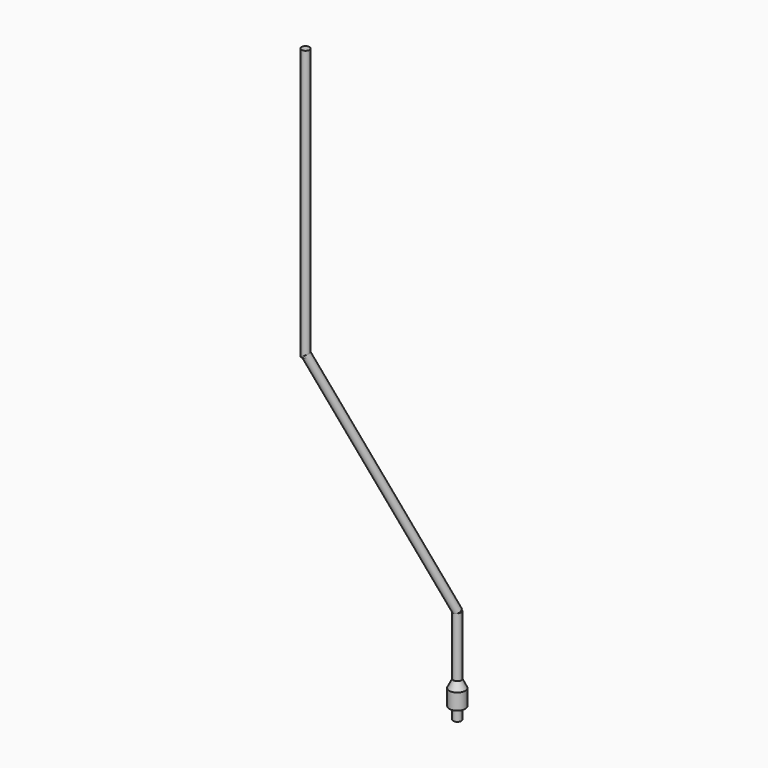
from build123d import *

# Parameters (mm, degrees)
CYLINDER071_R               = 1
CYLINDER071_DEPTH           = 16
CYLINDER062_R               = 2
CYLINDER062_DEPTH           = 4
CYLINDER064_R               = 1
CYLINDER064_DEPTH           = 8
CYLINDER069_R               = 1
CYLINDER069_DEPTH           = 67
CYLINDER069_ROLL_ANGLE      = 14.618093
CYLINDER069_PITCH_ANGLE     = -22.769702
CYLINDER069_PLACEMENT_ANGLE = 14.618093
CYLINDER070_R               = 1
CYLINDER070_DEPTH           = 68


with BuildPart() as cylindre067:
    # Cylinder071 → Cylinder071 (new body)
    with BuildSketch(Plane(origin=(-18, 17, -43), x_dir=(1, 0, 0), z_dir=(0, 0, 1))):
        Circle(CYLINDER071_R)
    extrude(amount=CYLINDER071_DEPTH)


with BuildPart() as obj1:
    # Cone002 → Cone002 (revolve)
    with BuildSketch(Plane(origin=(-32, 9, -106), x_dir=(1, 0, 0), z_dir=(0, -1, 0))):
        Polygon((0, 0), (2, 0), (1, 2), (0, 2), align=None)
    revolve(axis=Axis((-32, 9, -106), (0, 0, 1)))


with BuildPart() as fusion035:
    # Cylinder062 → Cylinder062 (new body)
    with BuildSketch(Plane(origin=(-32, 9, -110), x_dir=(1, 0, 0), z_dir=(0, 0, 1))):
        Circle(CYLINDER062_R)
    extrude(amount=CYLINDER062_DEPTH)

    # Fusion029: union obj1
    add(obj1.part)


with BuildPart() as fusion035_1:
    # Fusion029 placement: moved
    add(fusion035.part.moved(Location((14, 8, 62))))

    # Fusion035: union Cylindre067
    add(cylindre067.part)


with BuildPart() as fusion036:
    # Cylinder064 → Cylinder064 (new body)
    with BuildSketch(Plane(origin=(-18, 17, -51), x_dir=(1, 0, 0), z_dir=(0, 0, 1))):
        Circle(CYLINDER064_R)
    extrude(amount=CYLINDER064_DEPTH)

    # Fusion036: union Fusion035
    add(fusion035_1.part)


with BuildPart() as fusion037:
    # Cylinder069 → Cylinder069 (new body)
    with BuildSketch(Plane.XY):
        Circle(CYLINDER069_R)
    extrude(amount=CYLINDER069_DEPTH)


with BuildPart() as fusion037_1:
    # Cylinder069 roll: moved
    add(fusion037.part.rotate(Axis((0, 0, 0), (1, 0, 0)), CYLINDER069_ROLL_ANGLE))


with BuildPart() as fusion037_2:
    # Cylinder069 pitch: moved
    add(fusion037_1.part.rotate(Axis((0, 0, 0), (0, 1, 0)), CYLINDER069_PITCH_ANGLE))


with BuildPart() as fusion037_3:
    # Cylinder069 placement: moved
    add(fusion037_2.part.moved(Location((-18, 17, -27))).rotate(Axis((-18, 17, -27), (0, 0, 1)), CYLINDER069_PLACEMENT_ANGLE))

    # Fusion037: union Fusion036
    add(fusion036.part)


with BuildPart() as fusion038:
    # Cylinder070 → Cylinder070 (new body)
    with BuildSketch(Plane(origin=(-38, -5.6, 32), x_dir=(1, 0, 0), z_dir=(0, 0, 1))):
        Circle(CYLINDER070_R)
    extrude(amount=CYLINDER070_DEPTH)

    # Fusion038: union Fusion037
    add(fusion037_3.part)


solid = fusion038.part
